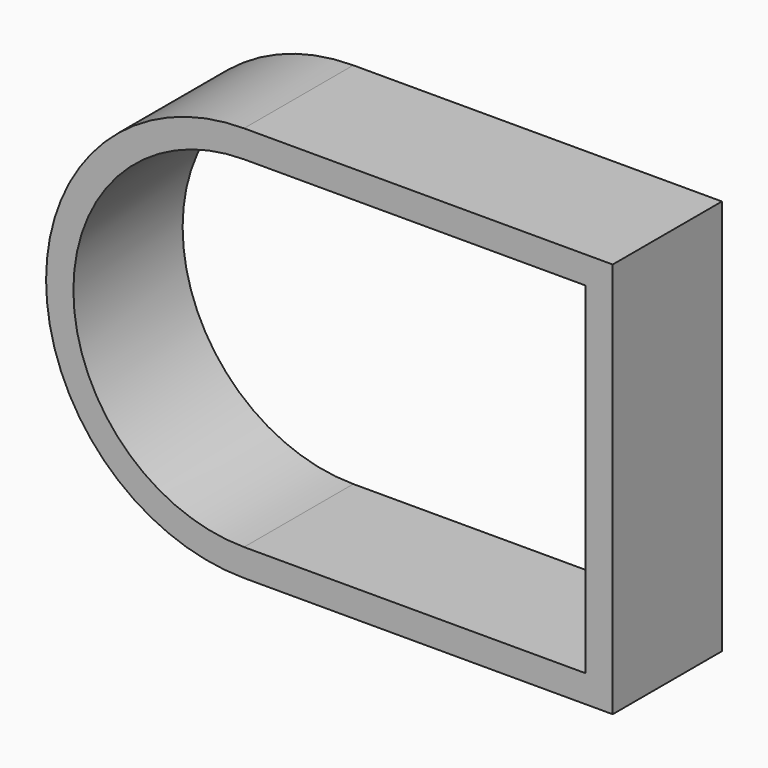
from build123d import *

# Parameters (mm, degrees)
F1_DEPTH = 10


with BuildPart() as f1:
    # F0 (on Front) → F1 (new body)
    with BuildSketch(Plane.XZ):
        with BuildLine():
            Line((27, 27), (0, 27))
            ThreePointArc((0, 27), (-14.5, 12.5), (0, -2))
            Line((0, -2), (27, -2))
            Line((27, -2), (27, 27))
        make_face()
        with BuildLine():
            Line((25, 0), (0, 0))
            ThreePointArc((0, 0), (-12.5, 12.5), (0, 25))
            Line((0, 25), (25, 25))
            Line((25, 25), (25, 0))
        make_face(mode=Mode.SUBTRACT)
    extrude(amount=F1_DEPTH)


solid = f1.part
